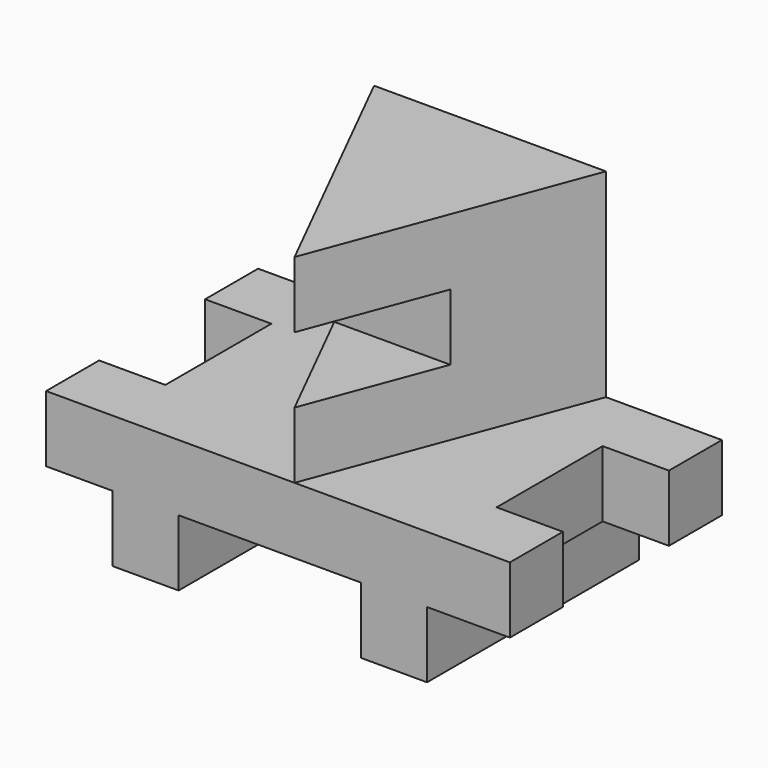
from build123d import *

# Parameters (mm, degrees)
F1_DEPTH = 101.6
F2_W     = 50.8
F2_H     = 25.4
F3_DEPTH = 25.4
F4_W     = 50.8
F4_H     = 25.4
F5_DEPTH = 25.4
F7_DEPTH = 76.2
F8_W     = 50.8
F8_H     = 25.4
F9_DEPTH = 254


with BuildPart() as f1:
    # F0 (on Front) → F1 (new body)
    with BuildSketch(Plane.XZ):
        Polygon((0, 25.4), (0, 0), (25.4, 0), (25.4, -25.4), (50.8, -25.4), (50.8, 0), (120.65, 0), (120.65, -25.4), (146.05, -25.4), (146.05, 0), (171.45, 0), (177.8, 0), (177.8, 25.4), align=None)
    extrude(amount=F1_DEPTH)

    # F2 (on face) → F3 (cut)
    with BuildSketch(Plane.YZ.offset(177.8)):
        with Locations((-50.8, 12.7)):
            Rectangle(F2_W, F2_H)
    extrude(amount=-F3_DEPTH, mode=Mode.SUBTRACT)

    # F4 (on face) → F5 (cut)
    with BuildSketch(Plane(origin=(0, 0, 0), x_dir=(0, -1, 0), z_dir=(-1, 0, 0))):
        with Locations((50.8, 12.7)):
            Rectangle(F4_W, F4_H)
    extrude(amount=-F5_DEPTH, mode=Mode.SUBTRACT)

    # F6 (on face) → F7 (join)
    with BuildSketch(Plane.XY.offset(25.4)):
        Polygon((44.45, 0), (95.25, -101.6), (133.35, 0), align=None)
    extrude(amount=F7_DEPTH)

    # F8 (on Right) → F9 (cut)
    with BuildSketch(Plane.YZ):
        with Locations((-76.2, 63.5)):
            Rectangle(F8_W, F8_H)
    extrude(amount=F9_DEPTH, mode=Mode.SUBTRACT)


solid = f1.part
